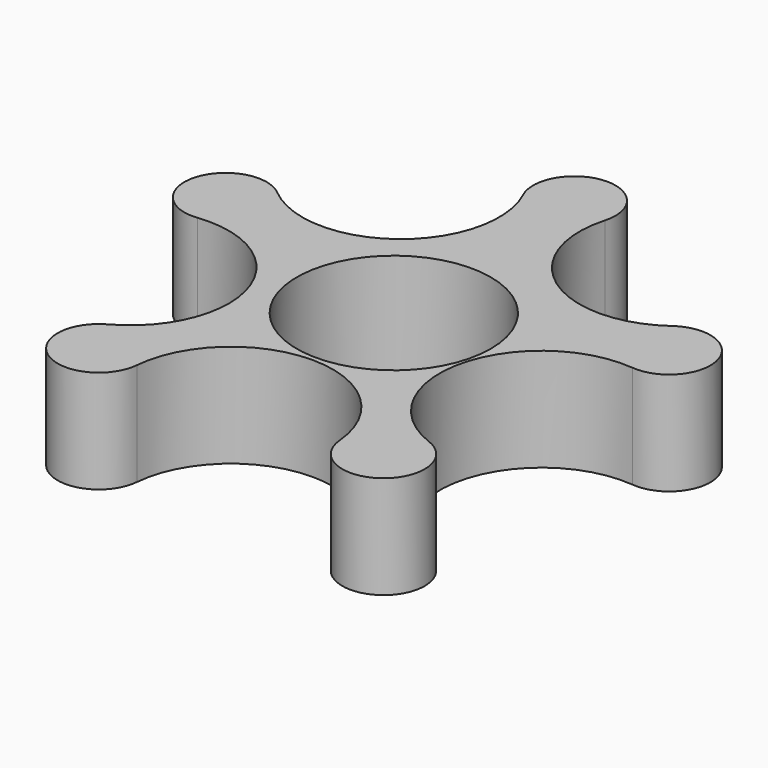
from build123d import *

# Parameters (mm, degrees)
SKETCH_R  = 18.849926
PAD_DEPTH = 20


with BuildPart() as part:
    # Sketch → Pad (new body)
    with BuildSketch(Plane.XY):
        with BuildLine():
            ThreePointArc((6.009813, 43.763913), (-2.307048, 53.935241), (-8.940587, 42.594066))
            ThreePointArc((-38.571066, 19.895965), (-14.659471, 19.370481), (-8.940587, 42.594066))
            ThreePointArc((-38.571066, 19.895965), (-51.372493, 16.065234), (-42.79749, 5.81729))
            ThreePointArc((-31.512922, -29.994656), (-22.378417, -7.432425), (-42.79749, 5.81729))
            ThreePointArc((-31.512922, -29.994656), (-32.109292, -43.708122), (-19.737971, -37.761257))
            ThreePointArc((19.745172, -37.841497), (0.040281, -19.752175), (-19.737971, -37.761257))
            ThreePointArc((19.745172, -37.841497), (32.535801, -43.526638), (30.567408, -29.668556))
            ThreePointArc((39.530273, 8.579484), (18.337441, -6.628465), (30.567408, -29.668556))
            ThreePointArc((39.530273, 8.579484), (48.01508, 18.640488), (35.605471, 23.024247))
            ThreePointArc((6.009813, 43.763913), (13.423393, 22.856702), (35.605471, 23.024247))
        make_face()
        Circle(SKETCH_R, mode=Mode.SUBTRACT)
    extrude(amount=PAD_DEPTH)


solid = part.part
